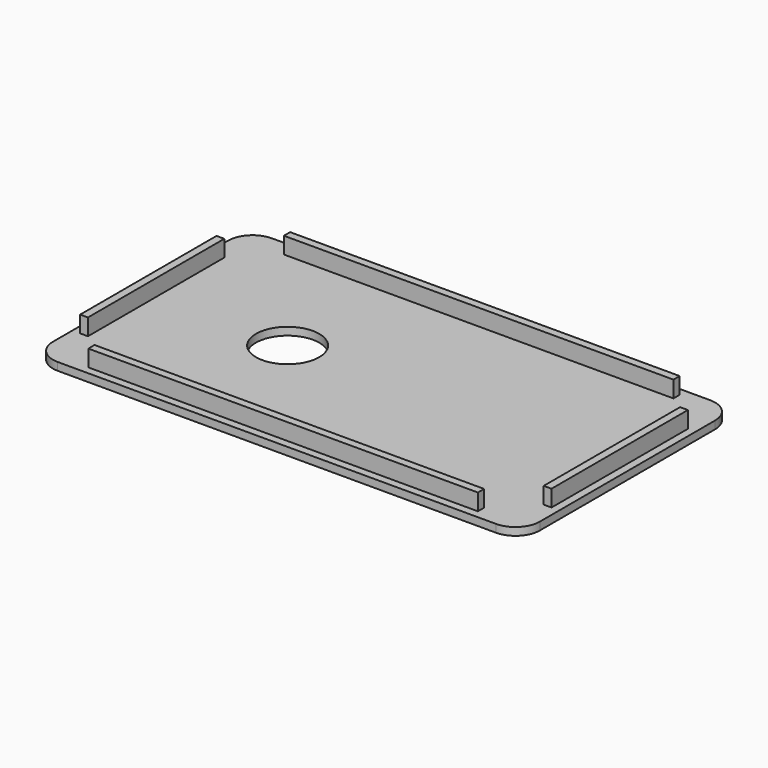
from build123d import *

# Parameters (mm, degrees)
F0_W     = 1.6
F0_H     = 35
F0_W_2   = 80
F0_H_2   = 1.6
F1_DEPTH = 3.4
F2_W     = 100
F2_H     = 55
F3_DEPTH = 1.6
F4_R     = 5
F5_R     = 6.5
F6_DEPTH = 2.5


with BuildPart() as f1:
    # F0 (on Top) → F1 (new body)
    with BuildSketch(Plane.XY):
        with Locations((47.6, 0)):
            Rectangle(F0_W, F0_H)
        with Locations((0, -25.1)):
            Rectangle(F0_W_2, F0_H_2)
        with Locations((0, 25.1)):
            Rectangle(F0_W_2, F0_H_2)
        with Locations((-47.6, 0)):
            Rectangle(F0_W, F0_H)
    extrude(amount=F1_DEPTH)


with BuildPart() as f3:
    # F2 (on Top) → F3 (new body)
    with BuildSketch(Plane.XY):
        Rectangle(F2_W, F2_H)
    extrude(amount=-F3_DEPTH)

    # F4
    f4_edges = [f3.edges().sort_by_distance(p)[0] for p in [
        (-50, -27.5, -0.8),
        (50, -27.5, -0.8),
        (50, 27.5, -0.8),
        (-50, 27.5, -0.8),
    ]]
    fillet(f4_edges, radius=F4_R)

    # F5 (on face) → F6 (cut, symmetric)
    with BuildSketch(Plane.XY):
        with Locations((-19.798, 0)):
            Circle(F5_R)
    extrude(amount=F6_DEPTH, both=True, mode=Mode.SUBTRACT)


solid = Compound([f1.part, f3.part])
